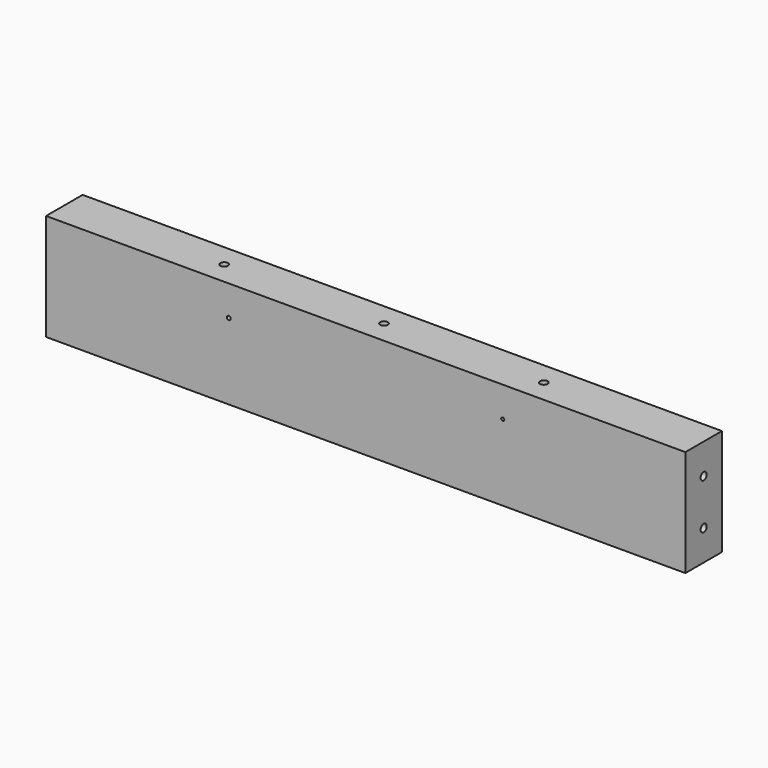
from build123d import *

# Parameters (mm, degrees)
F0_W     = 533.4
F0_H     = 88.9
F1_DEPTH = 38.1
F3_D     = 6.35
F3_DEPTH = 12.7
F3_TIP   = 1.9077324654
F5_D     = 6.35
F5_DEPTH = 12.7
F5_TIP   = 1.9077324654
F7_D     = 6.35
F8_R     = 1.3011245906
F8_R_2   = 1.5875
F9_DEPTH = 38.101


with BuildPart() as f1:
    # F0 (on Front) → F1 (new body)
    with BuildSketch(Plane.XZ):
        with Locations((120.748703318, -48.9931209013)):
            Rectangle(F0_W, F0_H)
    extrude(amount=F1_DEPTH)

    # F3
    with Locations(Plane.YZ.offset(387.448703318)):
        with Locations((-19.05, -29.9431209013), (-19.05, -68.0431209013)):
            Hole(F3_D / 2, depth=F3_DEPTH)
            with Locations((0, 0, -(F3_DEPTH + F3_TIP / 2))):  # 118° drill point
                Cone(0, F3_D / 2, F3_TIP, mode=Mode.SUBTRACT)

    # F5
    with Locations(Plane(origin=(-145.951296682, 0, 0), x_dir=(0, -1, 0), z_dir=(-1, 0, 0))):
        with Locations((19.05, -29.9431209013), (19.05, -68.0431209013)):
            Hole(F5_D / 2, depth=F5_DEPTH)
            with Locations((0, 0, -(F5_DEPTH + F5_TIP / 2))):  # 118° drill point
                Cone(0, F5_D / 2, F5_TIP, mode=Mode.SUBTRACT)

    # F7 (through all)
    with Locations(Plane.XY.offset(-4.5431209013)):
        with Locations((-12.601296682, -19.05), (120.748703318, -19.05), (254.098703318, -19.05)):
            Hole(F7_D / 2)

    # F8 (on face) → F9 (cut, through all)
    with BuildSketch(Plane(origin=(0, 0, 0), x_dir=(-1, 0, 0), z_dir=(0, 1, 0))):
        with Locations((-235.048703318, -29.9431209013)):
            Circle(F8_R)
        with Locations((-6.448703318, -29.9431209013)):
            Circle(F8_R_2)
    extrude(amount=-F9_DEPTH, mode=Mode.SUBTRACT)


solid = f1.part
